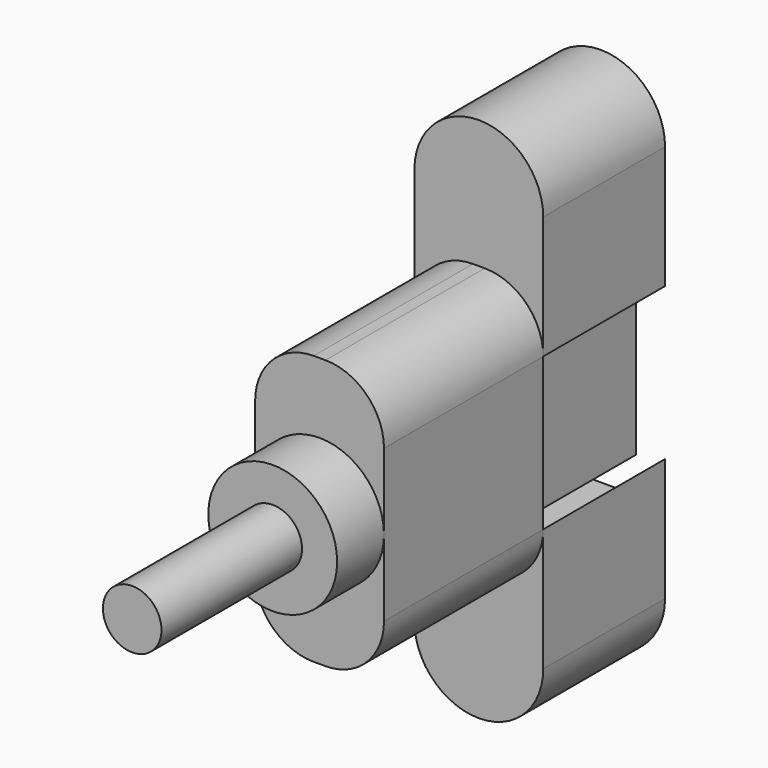
from build123d import *

# Parameters (mm, degrees)
F0_R      = 5.5
F1_DEPTH  = 5
F2_R      = 2.5
F3_DEPTH  = 15
F5_DEPTH  = 17
F6_R      = 5
F7_W      = 6
F7_H      = 14
F8_DEPTH  = 13
F9_W      = 4
F9_H      = 12
F10_DEPTH = 14
F12_DEPTH = 13


with BuildPart() as f1:
    # F0 (on Front) → F1 (new body)
    with BuildSketch(Plane.XZ):
        Circle(F0_R)
    extrude(amount=F1_DEPTH)

    # F2 (on face) → F3 (join)
    with BuildSketch(Plane.XZ.offset(5)):
        Circle(F2_R)
    extrude(amount=F3_DEPTH)

    # F4 (on face) → F5 (join)
    with BuildSketch(Plane(origin=(0, 0, 0), x_dir=(-1, 0, 0), z_dir=(0, 1, 0))):
        Polygon((0, 5.5), (0, 0), (5.5, 0), (5.5, 11.5), (0, 11.5), align=None)
        Polygon((0, -5.5), (0, 0), (-5.5, 0), (-5.5, -11.5), (0, -11.5), align=None)
        Polygon((-5.5, 0), (0, 0), (0, 5.5), (0, 11.5), (-5.5, 11.5), align=None)
        Polygon((5.5, 0), (0, 0), (0, -5.5), (0, -11.5), (5.5, -11.5), align=None)
    extrude(amount=F5_DEPTH)

    # F6
    f6_edges = [f1.edges().sort_by_distance(p)[0] for p in [
        (-5.5, 8.5, -11.5),
        (5.5, 8.5, -11.5),
        (5.5, 8.5, 11.5),
        (-5.5, 8.5, 11.5),
    ]]
    fillet(f6_edges, radius=F6_R)

    # F7 (on face) → F8 (join)
    with BuildSketch(Plane(origin=(0, 17, 0), x_dir=(-1, 0, 0), z_dir=(0, 1, 0))):
        Rectangle(F7_W, F7_H)
    extrude(amount=F8_DEPTH)

    # F9 (on face) → F10 (cut)
    with BuildSketch(Plane(origin=(0, 30, 0), x_dir=(-1, 0, 0), z_dir=(0, 1, 0))):
        Rectangle(F9_W, F9_H)
    extrude(amount=-F10_DEPTH, mode=Mode.SUBTRACT)


with BuildPart() as f12:
    # F11 (on face) → F12 (new body)
    with BuildSketch(Plane(origin=(0, 17, 0), x_dir=(-1, 0, 0), z_dir=(0, 1, 0))):
        with BuildLine():
            Line((0, 16.9772255751), (5.5, 16.9772255751))
            ThreePointArc((5.5, 16.9772255751), (0, 22.4772255751), (-5.5, 16.9772255751))
            Line((-5.5, 16.9772255751), (0, 16.9772255751))
        make_face()
        with BuildLine():
            ThreePointArc((0.5, 11.5), (4.0620192023, 13.2691263315), (5.5, 16.9772255751))
            Line((5.5, 16.9772255751), (0, 16.9772255751))
            Line((0, 16.9772255751), (-5.5, 16.9772255751))
            ThreePointArc((-5.5, 16.9772255751), (-4.0620192023, 13.2691263315), (-0.5, 11.5))
            Line((-0.5, 11.5), (0.5, 11.5))
        make_face()
        with BuildLine():
            Line((5.5, 6.5), (5.5, 16.9772255751))
            ThreePointArc((5.5, 16.9772255751), (4.0620192023, 13.2691263315), (0.5, 11.5))
            ThreePointArc((0.5, 11.5), (2.4134171618, 11.1193976626), (4.0355339059, 10.0355339059))
            ThreePointArc((4.0355339059, 10.0355339059), (5.1193976626, 8.4134171618), (5.5, 6.5))
        make_face()
        with BuildLine():
            ThreePointArc((-0.5, 11.5), (-4.0620192023, 13.2691263315), (-5.5, 16.9772255751))
            Line((-5.5, 16.9772255751), (-5.5, 6.5))
            ThreePointArc((-5.5, 6.5), (-5.1193976626, 8.4134171618), (-4.0355339059, 10.0355339059))
            ThreePointArc((-4.0355339059, 10.0355339059), (-2.4134171618, 11.1193976626), (-0.5, 11.5))
        make_face()
        with BuildLine():
            ThreePointArc((4.0355339059, 10.0355339059), (2.4134171618, 11.1193976626), (0.5, 11.5))
            ThreePointArc((0.5, 11.5), (0, 11.4772255751), (-0.5, 11.5))
            ThreePointArc((-0.5, 11.5), (-2.4134171618, 11.1193976626), (-4.0355339059, 10.0355339059))
            Line((-4.0355339059, 10.0355339059), (4.0355339059, 10.0355339059))
        make_face()
    extrude(amount=F12_DEPTH)


with BuildPart() as f12b:
    # F11 (on face) → F12, piece 2 (new body)
    with BuildSketch(Plane(origin=(0, 17, 0), x_dir=(-1, 0, 0), z_dir=(0, 1, 0))):
        with BuildLine():
            Line((5.5, -16.9880884817), (5.5, -6.5))
            ThreePointArc((5.5, -6.5), (5.1193976626, -8.4134171618), (4.0355339059, -10.0355339059))
            ThreePointArc((4.0355339059, -10.0355339059), (2.4134171618, -11.1193976626), (0.5, -11.5))
            Line((0.5, -11.5), (0.3617800672, -11.5))
            ThreePointArc((0.3617800672, -11.5), (4.0149589269, -13.2290853139), (5.5, -16.9880884817))
        make_face()
        with BuildLine():
            ThreePointArc((-4.0355339059, -10.0355339059), (-5.1193976626, -8.4134171618), (-5.5, -6.5))
            Line((-5.5, -6.5), (-5.5, -16.9880884817))
            ThreePointArc((-5.5, -16.9880884817), (-4.0149589269, -13.2290853139), (-0.3617800672, -11.5))
            Line((-0.3617800672, -11.5), (-0.5, -11.5))
            ThreePointArc((-0.5, -11.5), (-2.4134171618, -11.1193976626), (-4.0355339059, -10.0355339059))
        make_face()
        with BuildLine():
            Line((0, -16.9880884817), (5.5, -16.9880884817))
            ThreePointArc((5.5, -16.9880884817), (4.0149589269, -13.2290853139), (0.3617800672, -11.5))
            Line((0.3617800672, -11.5), (-0.3617800672, -11.5))
            ThreePointArc((-0.3617800672, -11.5), (-4.0149589269, -13.2290853139), (-5.5, -16.9880884817))
            Line((-5.5, -16.9880884817), (0, -16.9880884817))
        make_face()
        with BuildLine():
            ThreePointArc((-5.5, -16.9880884817), (0, -22.4880884817), (5.5, -16.9880884817))
            Line((5.5, -16.9880884817), (0, -16.9880884817))
            Line((0, -16.9880884817), (-5.5, -16.9880884817))
        make_face()
        with BuildLine():
            ThreePointArc((0.5, -11.5), (2.4134171618, -11.1193976626), (4.0355339059, -10.0355339059))
            Line((4.0355339059, -10.0355339059), (-4.0355339059, -10.0355339059))
            ThreePointArc((-4.0355339059, -10.0355339059), (-2.4134171618, -11.1193976626), (-0.5, -11.5))
            Line((-0.5, -11.5), (-0.3617800672, -11.5))
            ThreePointArc((-0.3617800672, -11.5), (0, -11.4880884817), (0.3617800672, -11.5))
            Line((0.3617800672, -11.5), (0.5, -11.5))
        make_face()
    extrude(amount=F12_DEPTH)


solid = Compound([f1.part, f12.part, f12b.part])
